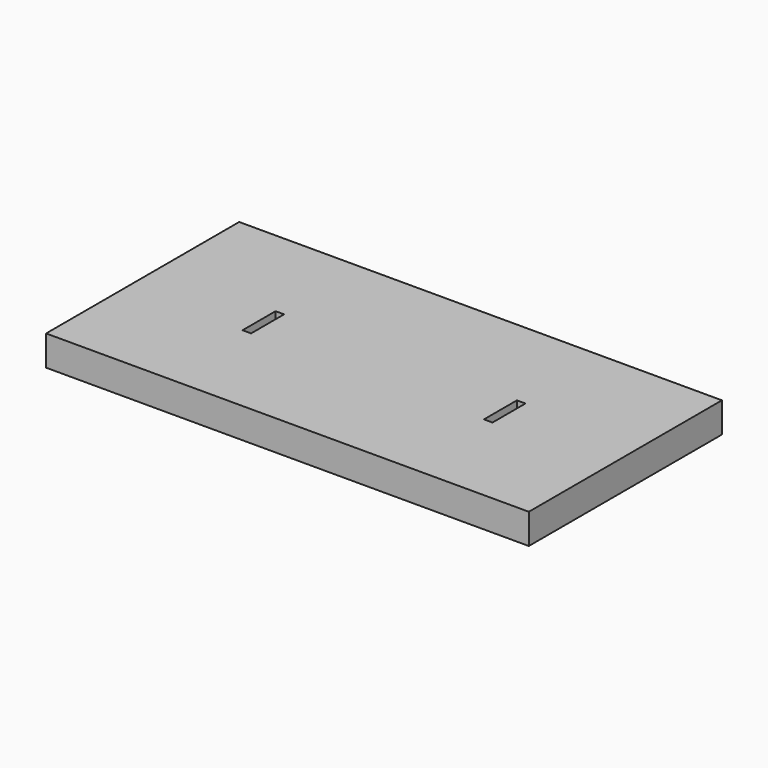
from build123d import *

# Parameters (mm, degrees)
F0_W     = 609.6
F0_H     = 304.8
F1_DEPTH = 19.05
F2_W     = 10.795
F2_H     = 52.07
F3_DEPTH = 38.101
F4_W     = 127
F4_H     = 177.8
F5_DEPTH = 6.35


with BuildPart() as f1:
    # F0 (on Top) → F1 (new body, symmetric)
    with BuildSketch(Plane.XY):
        Rectangle(F0_W, F0_H)
    extrude(amount=F1_DEPTH, both=True)

    # F2 (on face) → F3 (cut, through all)
    with BuildSketch(Plane.XY.offset(19.05)):
        with Locations((-152.4, 0)):
            Rectangle(F2_W, F2_H)
        with Locations((152.4, 0)):
            Rectangle(F2_W, F2_H)
    extrude(amount=-F3_DEPTH, mode=Mode.SUBTRACT)

    # F4 (on face) → F5 (cut)
    with BuildSketch(Plane(origin=(0, 0, -19.05), x_dir=(1, 0, 0), z_dir=(0, 0, -1))):
        with Locations((-152.4, 0)):
            Rectangle(F4_W, F4_H)
        with Locations((152.4, 0)):
            Rectangle(F4_W, F4_H)
    extrude(amount=-F5_DEPTH, mode=Mode.SUBTRACT)


solid = f1.part
